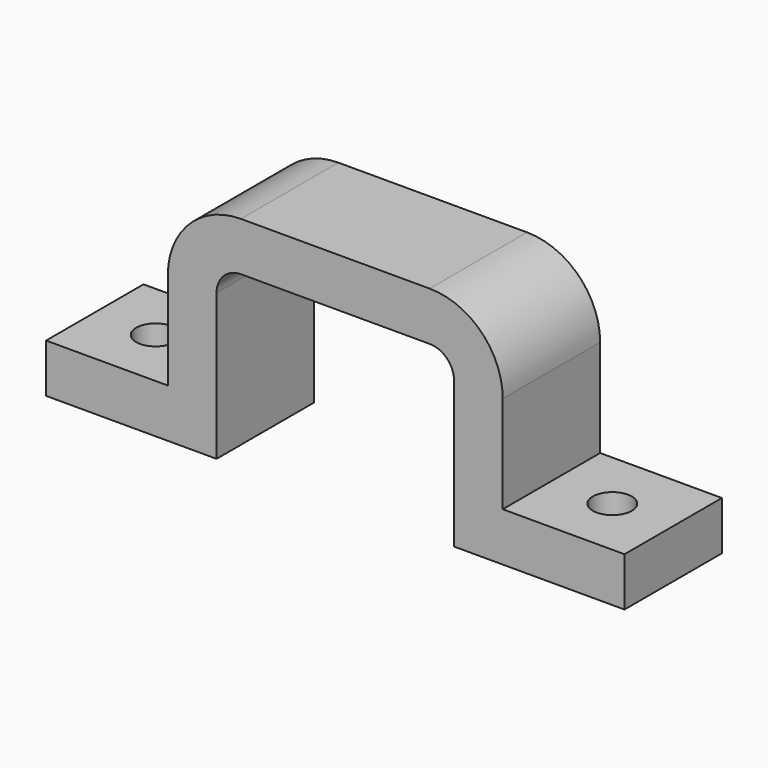
from build123d import *

# Parameters (mm, degrees)
F1_W          = 14
F1_H          = 10
F1_R          = 1.6
F2_DEPTH      = 4
F4_DEPTH      = 5
F4_DEPTH_BACK = 5


with BuildPart() as f2:
    # F1 (on Top) → F2 (new body)
    with BuildSketch(Plane.XY):
        with Locations((-16.75, 0)):
            Rectangle(F1_W, F1_H)
        with Locations((-18.75, 0)):
            Circle(F1_R, mode=Mode.SUBTRACT)
    extrude(amount=F2_DEPTH)



with BuildPart() as f2b:
    # F1 (on Top) → F2, piece 2 (new body)
    with BuildSketch(Plane.XY):
        with Locations((16.75, 0)):
            Rectangle(F1_W, F1_H)
        with Locations((18.75, 0)):
            Circle(F1_R, mode=Mode.SUBTRACT)
    extrude(amount=F2_DEPTH)


with BuildPart() as f2_1:
    add(f2.part)

    add(f2b.part)  # F4 merges F2b
    # F3 (on Front) → F4 (join, two sides)
    with BuildSketch(Plane.XZ) as f4_sk:
        with BuildLine():
            Line((-13.75, 0), (-9.75, 0))
            Line((-9.75, 0), (-9.75, 12))
            ThreePointArc((-9.75, 12), (-9.1642135624, 13.4142135624), (-7.75, 14))
            Line((-7.75, 14), (7.75, 14))
            ThreePointArc((7.75, 14), (9.1642135624, 13.4142135624), (9.75, 12))
            Line((9.75, 12), (9.75, 0))
            Line((9.75, 0), (13.75, 0))
            Line((13.75, 0), (13.75, 12))
            ThreePointArc((13.75, 12), (11.9926406871, 16.2426406871), (7.75, 18))
            Line((7.75, 18), (-7.75, 18))
            ThreePointArc((-7.75, 18), (-11.9926406871, 16.2426406871), (-13.75, 12))
            Line((-13.75, 12), (-13.75, 0))
        make_face()
    extrude(amount=F4_DEPTH)
    extrude(f4_sk.sketch, amount=-F4_DEPTH_BACK)


solid = f2_1.part
